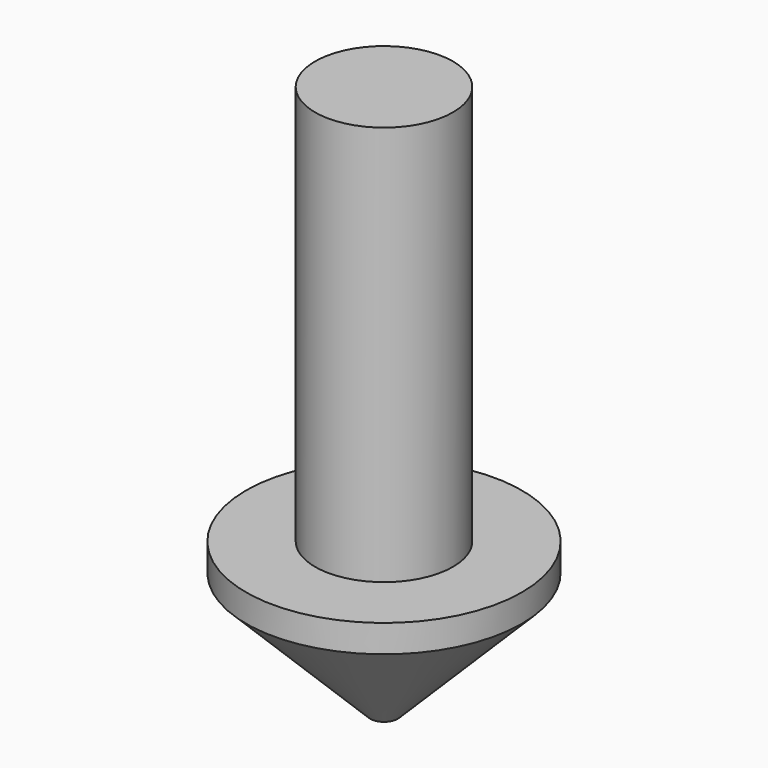
from build123d import *


with BuildPart() as part:
    # Sketch → Revolution (revolve)
    with BuildSketch(Plane.XZ):
        Polygon((0, 20), (0, 0), (0.5, 0), (5, 4.5), (5, 5.5), (2.5, 5.5), (2.5, 20), align=None)
    revolve(axis=Axis((0, 0, 0), (0, 0, 1)))


solid = part.part
